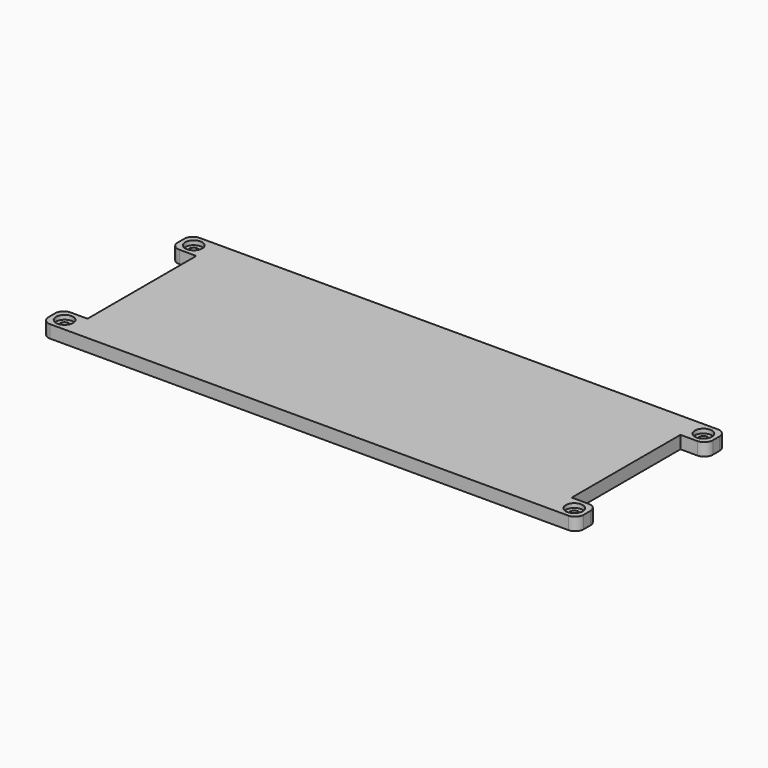
from build123d import *

# Parameters (mm, degrees)
SKETCH_W        = 114
SKETCH_H        = 44
PAD_DEPTH       = 3
SKETCH001_W     = 6
SKETCH001_H     = 3
PAD001_DEPTH    = 6
SKETCH002_W     = 6
SKETCH002_H     = 3
PAD002_DEPTH    = 6
SKETCH003_R     = 1
POCKET_DEPTH    = 5
SKETCH004_R     = 2
POCKET001_DEPTH = 1
FILLET_R        = 2
FILLET001_R     = 2
FILLET002_R     = 2
FILLET003_R     = 2
FILLET004_R     = 2
FILLET005_R     = 2
FILLET006_R     = 2
FILLET007_R     = 2


with BuildPart() as part:
    # Sketch → Pad (new body)
    with BuildSketch(Plane.XY):
        with Locations((57, 22)):
            Rectangle(SKETCH_W, SKETCH_H)
    extrude(amount=PAD_DEPTH)

    # Sketch001 → Pad001 (new body)
    with BuildSketch(Plane(origin=(0, 0, 0), x_dir=(0, -1, 0), z_dir=(-1, 0, 0))):
        with Locations((-3, 1.5)):
            Rectangle(SKETCH001_W, SKETCH001_H)
        with Locations((-41, 1.5)):
            Rectangle(SKETCH001_W, SKETCH001_H)
    extrude(amount=PAD001_DEPTH)

    # Sketch002 → Pad002 (new body)
    with BuildSketch(Plane.YZ.offset(114)):
        with Locations((3, 1.5)):
            Rectangle(SKETCH002_W, SKETCH002_H)
        with Locations((41, 1.5)):
            Rectangle(SKETCH002_W, SKETCH002_H)
    extrude(amount=PAD002_DEPTH)

    # Sketch003 → Pocket (cut)
    with BuildSketch(Plane.XY.offset(3)):
        with Locations((-3, 3)):
            Circle(SKETCH003_R)
        with Locations((-3, 41)):
            Circle(SKETCH003_R)
        with Locations((117, 41)):
            Circle(SKETCH003_R)
        with Locations((117, 3)):
            Circle(SKETCH003_R)
    extrude(amount=-POCKET_DEPTH, mode=Mode.SUBTRACT)

    # Sketch004 → Pocket001 (cut)
    with BuildSketch(Plane.XY.offset(3)):
        with Locations((-3, 41)):
            Circle(SKETCH004_R)
        with Locations((-3, 3)):
            Circle(SKETCH004_R)
        with Locations((117, 41)):
            Circle(SKETCH004_R)
        with Locations((117, 3)):
            Circle(SKETCH004_R)
    extrude(amount=-POCKET001_DEPTH, mode=Mode.SUBTRACT)

    # Fillet
    fillet_edges = [part.edges().sort_by_distance(p)[0] for p in [
        (-6, 0, 1.5),
    ]]
    fillet(fillet_edges, radius=FILLET_R)

    # Fillet001
    fillet001_edges = [part.edges().sort_by_distance(p)[0] for p in [
        (-6, 38, 1.5),
    ]]
    fillet(fillet001_edges, radius=FILLET001_R)

    # Fillet002
    fillet002_edges = [part.edges().sort_by_distance(p)[0] for p in [
        (-6, 44, 1.5),
    ]]
    fillet(fillet002_edges, radius=FILLET002_R)

    # Fillet003
    fillet003_edges = [part.edges().sort_by_distance(p)[0] for p in [
        (-6, 6, 1.5),
    ]]
    fillet(fillet003_edges, radius=FILLET003_R)

    # Fillet004
    fillet004_edges = [part.edges().sort_by_distance(p)[0] for p in [
        (120, 44, 1.5),
    ]]
    fillet(fillet004_edges, radius=FILLET004_R)

    # Fillet005
    fillet005_edges = [part.edges().sort_by_distance(p)[0] for p in [
        (120, 38, 1.5),
    ]]
    fillet(fillet005_edges, radius=FILLET005_R)

    # Fillet006
    fillet006_edges = [part.edges().sort_by_distance(p)[0] for p in [
        (120, 6, 1.5),
    ]]
    fillet(fillet006_edges, radius=FILLET006_R)

    # Fillet007
    fillet007_edges = [part.edges().sort_by_distance(p)[0] for p in [
        (120, 0, 1.5),
    ]]
    fillet(fillet007_edges, radius=FILLET007_R)


solid = part.part
